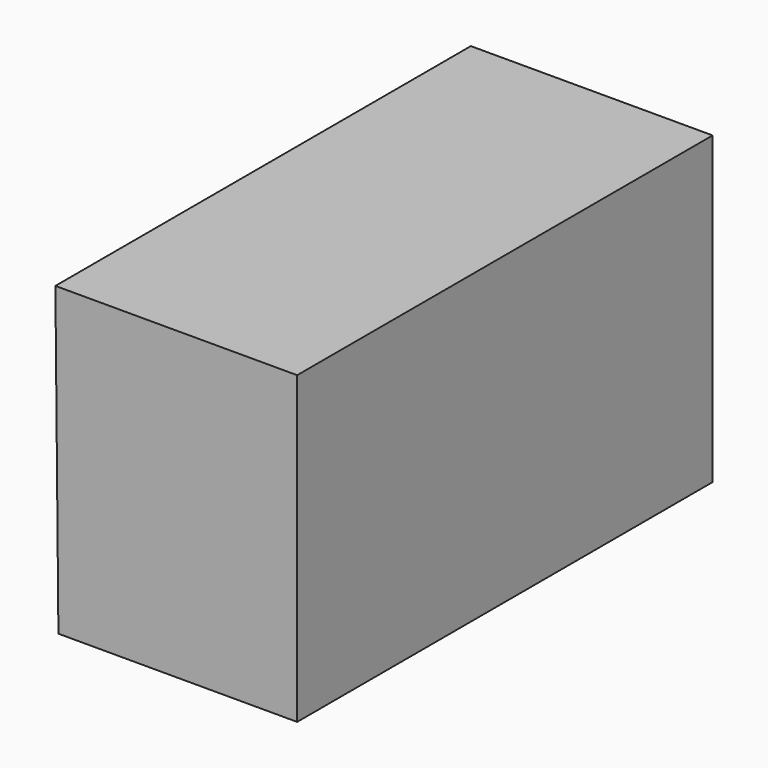
from build123d import *

# Parameters (mm, degrees)
F1_DEPTH = 127
F2_R     = 17.441955
F3_DEPTH = 127.000004


with BuildPart() as f1:
    # F0 (on Front) → F1 (new body)
    with BuildSketch(Plane.XZ):
        Polygon((28.824925, 45.454696), (-30.303128, 45.454696), (-29.56403, -29.194474), (28.824925, -29.194474), align=None)
        Polygon((28.824925, 45.454696), (-30.303128, 45.454696), (-29.56403, -29.194474), (28.824925, -29.194474), align=None)
    extrude(amount=F1_DEPTH)

    # F2 (on face) → F3 (cut)
    with BuildSketch(Plane.XZ.offset(127)):
        Polygon((-30.303128, 45.454696), (-29.56403, -29.194474), (28.824925, -29.194474), (28.824925, 45.454696), align=None)
        Circle(F2_R, mode=Mode.SUBTRACT)
    extrude(amount=F3_DEPTH, mode=Mode.SUBTRACT)


solid = f1.part
